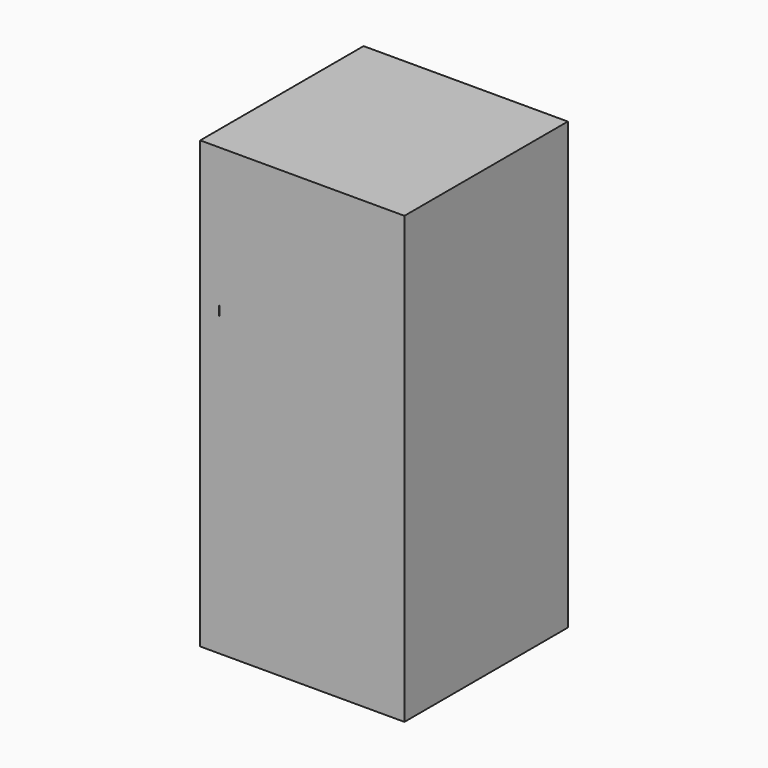
from build123d import *

# Parameters (mm, degrees)
F0_W          = 139.7
F0_H          = 304.8
F1_DEPTH      = 69.85
F2_W          = 127
F2_H          = 127
F3_DEPTH      = 152.4
F3_DEPTH_BACK = 146.05
F4_R          = 31.75
F5_DEPTH      = 127
F8_DEPTH      = 6.35


with BuildPart() as f1:
    # F0 (on Front) → F1 (new body, symmetric)
    with BuildSketch(Plane.XZ):
        Rectangle(F0_W, F0_H)
    extrude(amount=F1_DEPTH, both=True)

    # F2 (on Top) → F3 (cut, two sides)
    with BuildSketch(Plane.XY) as f3_sk:
        Rectangle(F2_W, F2_H)
    extrude(amount=-F3_DEPTH, mode=Mode.SUBTRACT)
    extrude(f3_sk.sketch, amount=F3_DEPTH_BACK, mode=Mode.SUBTRACT)

    # F4 (on Front) → F5 (cut)
    with BuildSketch(Plane.XZ):
        Circle(F4_R)
        with Locations((0, 101.6)):
            Circle(F4_R)
        with Locations((0, -101.6)):
            Circle(F4_R)
    extrude(amount=-F5_DEPTH, mode=Mode.SUBTRACT)

    # F10 (on offset) → F11 (revolve, cut)
    with BuildSketch(Plane.XY.offset(44.45)):
        with BuildLine():
            Line((0, -6.35), (0, 0))
            Line((0, 0), (0, 6.35))
            ThreePointArc((0, 6.35), (-6.35, 0), (0, -6.35))
        make_face()
    revolve(axis=Axis((0, -3.175, 44.45), (0, -1, 0)), mode=Mode.SUBTRACT)


with BuildPart() as f8:
    # F7 (on offset) → F8 (new body)
    with BuildSketch(Plane.XY.offset(57.15)):
        with BuildLine():
            ThreePointArc((26.3244952978, -17.7505900554), (30.3633432424, -9.2806188989), (31.75, 0))
            ThreePointArc((31.75, 0), (30.446875694, 9.0027918155), (26.6444717812, 17.2665753264))
            Line((26.6444717812, 17.2665753264), (23.8826018393, 14.7432721863))
            Line((23.8826018393, 14.7432721863), (15.3164268655, 24.1193399291))
            Line((15.3164268655, 24.1193399291), (17.7387810505, 26.3324542502))
            ThreePointArc((17.7387810505, 26.3324542502), (1.3276009662, 31.7222315683), (-15.4765358755, 27.7225420425))
            Line((-15.4765358755, 27.7225420425), (-12.9853863034, 25.485682995))
            Line((-12.9853863034, 25.485682995), (-21.6787576449, 16.227427505))
            Line((-21.6787576449, 16.227427505), (-25.1657139179, 19.3584437133))
            ThreePointArc((-25.1657139179, 19.3584437133), (-31.7336135863, 1.0199356609), (-26.3568722235, -17.7024796736))
            Line((-26.3568722235, -17.7024796736), (-23.4076284828, -14.4657643103))
            Line((-23.4076284828, -14.4657643103), (-14.0201763565, -23.019461907))
            Line((-14.0201763565, -23.019461907), (-17.3021757576, -26.6213676218))
            ThreePointArc((-17.3021757576, -26.6213676218), (-0.0363207978, -31.7499792252), (17.2412228394, -26.6608839877))
            Line((17.2412228394, -26.6608839877), (15.2091812342, -24.836268276))
            Line((15.2091812342, -24.836268276), (23.8411927104, -15.5207769913))
            Line((23.8411927104, -15.5207769913), (26.3244952978, -17.7505900554))
        make_face()
        with BuildLine():
            Line((23.8826018393, 14.7432721863), (26.6444717812, 17.2665753264))
            ThreePointArc((26.6444717812, 17.2665753264), (22.6498526076, 22.2496444208), (17.7387810505, 26.3324542502))
            Line((17.7387810505, 26.3324542502), (15.3164268655, 24.1193399291))
            Line((15.3164268655, 24.1193399291), (23.8826018393, 14.7432721863))
        make_face()
        with BuildLine():
            ThreePointArc((17.7387810505, 26.3324542502), (22.6498526076, 22.2496444208), (26.6444717812, 17.2665753264))
            Line((26.6444717812, 17.2665753264), (69.8253337792, 56.7175295579))
            Line((69.8253337792, 56.7175295579), (61.2591588054, 66.0935973007))
            Line((61.2591588054, 66.0935973007), (17.7387810505, 26.3324542502))
        make_face()
        with BuildLine():
            Line((69.1992311576, -56.2487765521), (26.3244952978, -17.7505900554))
            ThreePointArc((26.3244952978, -17.7505900554), (22.233786985, -22.6654189528), (17.2412228394, -26.6608839877))
            Line((17.2412228394, -26.6608839877), (60.5672196814, -65.5642678368))
            Line((60.5672196814, -65.5642678368), (69.1992311576, -56.2487765521))
        make_face()
        with BuildLine():
            ThreePointArc((17.2412228394, -26.6608839877), (22.233786985, -22.6654189528), (26.3244952978, -17.7505900554))
            Line((26.3244952978, -17.7505900554), (23.8411927104, -15.5207769913))
            Line((23.8411927104, -15.5207769913), (15.2091812342, -24.836268276))
            Line((15.2091812342, -24.836268276), (17.2412228394, -26.6608839877))
        make_face()
        with BuildLine():
            Line((-12.9853863034, 25.485682995), (-15.4765358755, 27.7225420425))
            ThreePointArc((-15.4765358755, 27.7225420425), (-20.7469914031, 24.033827155), (-25.1657139179, 19.3584437133))
            Line((-25.1657139179, 19.3584437133), (-21.6787576449, 16.227427505))
            Line((-21.6787576449, 16.227427505), (-12.9853863034, 25.485682995))
        make_face()
        with BuildLine():
            ThreePointArc((-25.1657139179, 19.3584437133), (-20.7469914031, 24.033827155), (-15.4765358755, 27.7225420425))
            Line((-15.4765358755, 27.7225420425), (-60.2333430192, 67.9106825375))
            Line((-60.2333430192, 67.9106825375), (-68.9267143607, 58.6524270475))
            Line((-68.9267143607, 58.6524270475), (-25.1657139179, 19.3584437133))
        make_face()
        with BuildLine():
            Line((-56.7886643402, -69.9567225384), (-17.3021757576, -26.6213676218))
            ThreePointArc((-17.3021757576, -26.6213676218), (-22.2803671023, -22.6196317784), (-26.3568722235, -17.7024796736))
            Line((-26.3568722235, -17.7024796736), (-66.1761164665, -61.4030249417))
            Line((-66.1761164665, -61.4030249417), (-56.7886643402, -69.9567225384))
        make_face()
        with BuildLine():
            ThreePointArc((-26.3568722235, -17.7024796736), (-22.2803671023, -22.6196317784), (-17.3021757576, -26.6213676218))
            Line((-17.3021757576, -26.6213676218), (-14.0201763565, -23.019461907))
            Line((-14.0201763565, -23.019461907), (-23.4076284828, -14.4657643103))
            Line((-23.4076284828, -14.4657643103), (-26.3568722235, -17.7024796736))
        make_face()
    extrude(amount=-F8_DEPTH)


solid = Compound([f1.part, f8.part])
